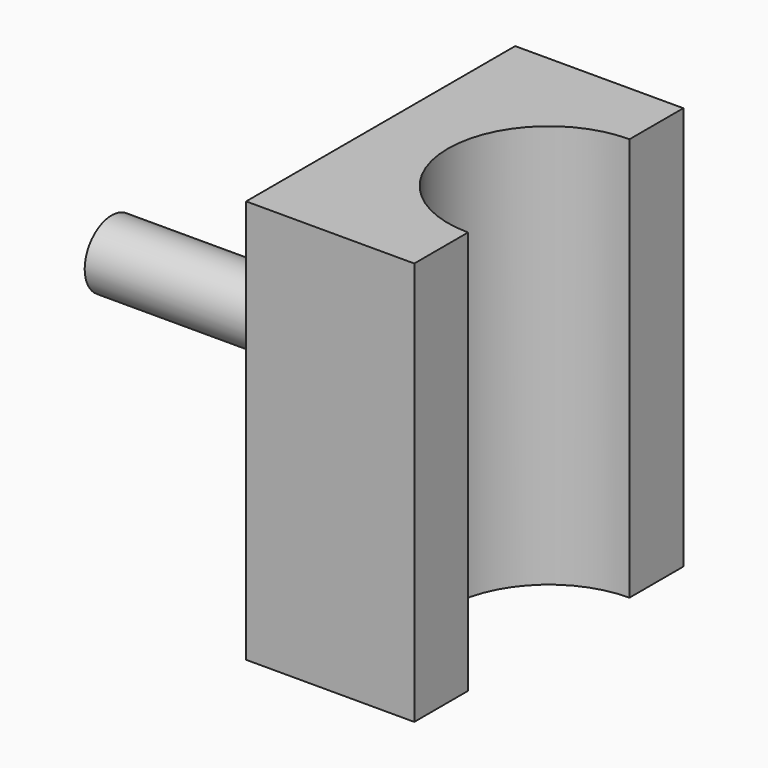
from build123d import *

# Parameters (mm, degrees)
F1_DEPTH = 38.1
F2_R     = 3.175
F3_DEPTH = 25.4


with BuildPart() as f1:
    # F0 (on Top) → F1 (new body)
    with BuildSketch(Plane.XY):
        with BuildLine():
            Line((-5.617423, 15.875), (-21.492423, 15.875))
            Line((-21.492423, 15.875), (-21.492423, -15.875))
            Line((-21.492423, -15.875), (-5.617423, -15.875))
            Line((-5.617423, -15.875), (-5.617423, -9.525))
            ThreePointArc((-5.617423, -9.525), (-15.142423, 0), (-5.617423, 9.525))
            Line((-5.617423, 9.525), (-5.617423, 15.875))
        make_face()
    extrude(amount=F1_DEPTH)

    # F2 (on face) → F3 (join)
    with BuildSketch(Plane(origin=(-21.492423, 0, 0), x_dir=(0, -1, 0), z_dir=(-1, 0, 0))):
        with Locations((0, 19.05)):
            Circle(F2_R)
    extrude(amount=F3_DEPTH)


solid = f1.part
